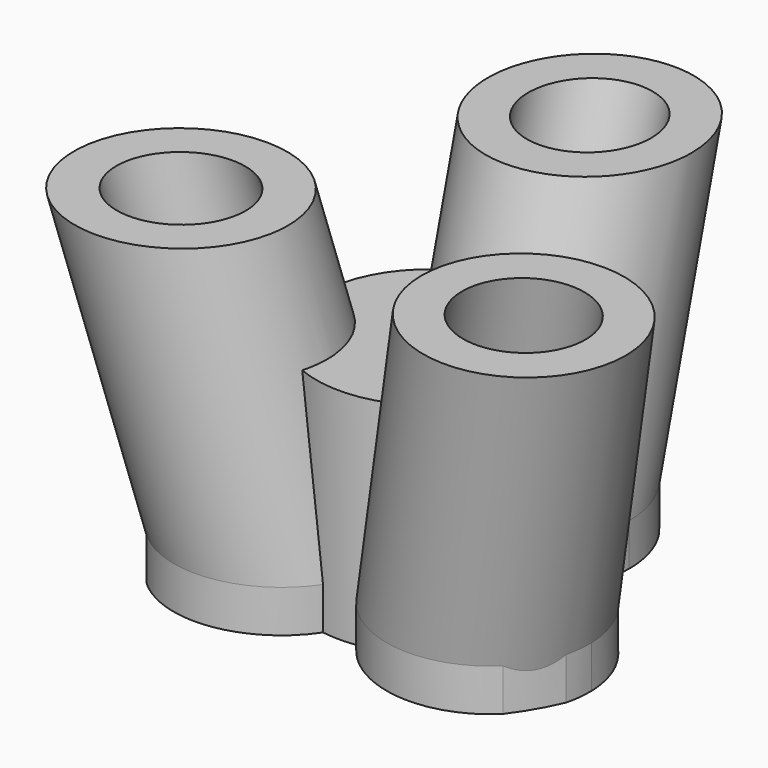
from build123d import *

# Parameters (mm, degrees)
F5_R           = 13.25
F5_R_2         = 8
F7_DEPTH       = 50
F4_R           = 13.25
F4_R_2         = 8
F8_DEPTH       = 50
F6_R           = 13.25
F6_R_2         = 8
F9_DEPTH       = 50
F10_DEPTH      = 25
F11_R          = 29
F12_DEPTH      = 3.5
F12_DEPTH_BACK = 2
F13_R          = 3.5
F14_DEPTH      = 51.7280401213
F14_DEPTH_BACK = 25
F17_DEPTH      = 20
F18_R          = 3.5
F19_DEPTH      = 12.9
F20_DEPTH      = 25
F22_W          = 110.3683225811
F22_H          = 78.3186629415
F23_DEPTH      = 25


with BuildPart() as f7:
    # F5 (on line) → F7 (new body)
    with BuildSketch(Plane(origin=(0.8701905284, -0.5024047358, 3.75), x_dir=(0.9745560663, 0.0297636554, -0.2221589485), z_dir=(-0.224143868, 0.1294095226, -0.9659258263))):
        with Locations((12.4405659735, 7.4533997104)):
            Circle(F5_R)
        with Locations((12.4405659735, 7.4533997104)):
            Circle(F5_R_2, mode=Mode.SUBTRACT)
    extrude(amount=-F7_DEPTH)


with BuildPart() as f8:
    # F4 (on line) → F8 (new body)
    with BuildSketch(Plane(origin=(-0.8701905284, -0.5024047358, 3.75), x_dir=(0.9745560663, -0.0297636554, 0.2221589485), z_dir=(0.224143868, 0.1294095226, -0.9659258263))):
        with Locations((-12.544631958, 7.3663704097)):
            Circle(F4_R)
        with Locations((-12.544631958, 7.3663704097)):
            Circle(F4_R_2, mode=Mode.SUBTRACT)
    extrude(amount=-F8_DEPTH)


with BuildPart() as f9:
    # F6 (on line) → F9 (new body)
    with BuildSketch(Plane(origin=(0, 1.0048094716, 3.75), x_dir=(1, 0, 0), z_dir=(0, -0.2588190451, -0.9659258263))):
        with Locations((0, -14.4834918901)):
            Circle(F6_R)
        with Locations((0, -14.4834918901)):
            Circle(F6_R_2, mode=Mode.SUBTRACT)
    extrude(amount=-F9_DEPTH)


with BuildPart() as f10:
    # F0 (on Top) → F10 (new body)
    with BuildSketch(Plane.XY):
        with BuildLine():
            Line((0, 0), (6.0621778265, -3.5))
            ThreePointArc((6.0621778265, -3.5), (9.8988818392, -0.1214749043), (14.998015474, 0.2439914803))
            ThreePointArc((14.998015474, 0.2439914803), (12.9903810568, 7.5), (7.7103105572, 12.8666666667))
            ThreePointArc((7.7103105572, 12.8666666667), (4.8442405666, 8.633420594), (0, 7))
            Line((0, 7), (0, 0))
        make_face()
        with BuildLine():
            Line((-6.0621778265, -3.5), (0, 0))
            Line((0, 0), (0, 7))
            ThreePointArc((0, 7), (-4.8442405666, 8.633420594), (-7.7103105572, 12.8666666667))
            ThreePointArc((-7.7103105572, 12.8666666667), (-12.9903810568, 7.5), (-14.998015474, 0.2439914803))
            ThreePointArc((-14.998015474, 0.2439914803), (-9.8988818392, -0.1214749043), (-6.0621778265, -3.5))
        make_face()
        with BuildLine():
            ThreePointArc((-7.2877049167, -13.110658147), (0, -15), (7.2877049167, -13.110658147))
            ThreePointArc((7.2877049167, -13.110658147), (5.0546412727, -8.5119456897), (6.0621778265, -3.5))
            Line((6.0621778265, -3.5), (0, 0))
            Line((0, 0), (-6.0621778265, -3.5))
            ThreePointArc((-6.0621778265, -3.5), (-5.2629744465, -5.4294476392), (-4.9903810568, -7.5))
            ThreePointArc((-4.9903810568, -7.5), (-5.5869558657, -10.5313850696), (-7.2877049167, -13.110658147))
        make_face()
    extrude(amount=F10_DEPTH)


with BuildPart() as f12:
    # F11 (on Top) → F12 (new body, two sides)
    with BuildSketch(Plane.XY) as f12_sk:
        Circle(F11_R)
    extrude(amount=-F12_DEPTH)
    extrude(f12_sk.sketch, amount=F12_DEPTH_BACK)


with BuildPart() as f14_tool:
    # F13 (on Top) → F14 (new body, two sides)
    with BuildSketch(Plane.XY) as f14_sk:
        Circle(F13_R)
    extrude(amount=F14_DEPTH)
    extrude(f14_sk.sketch, amount=-F14_DEPTH_BACK)


with BuildPart() as f7_1:
    add(f7.part)

    # F14: cut by f14_tool
    add(f14_tool.part, mode=Mode.SUBTRACT)


with BuildPart() as f8_1:
    add(f8.part)

    # F14: cut by f14_tool
    add(f14_tool.part, mode=Mode.SUBTRACT)


with BuildPart() as f9_1:
    add(f9.part)

    # F14: cut by f14_tool
    add(f14_tool.part, mode=Mode.SUBTRACT)


with BuildPart() as f10_1:
    add(f10.part)

    # F14: cut by f14_tool
    add(f14_tool.part, mode=Mode.SUBTRACT)


with BuildPart() as f12_1:
    add(f12.part)

    # F14: cut by f14_tool
    add(f14_tool.part, mode=Mode.SUBTRACT)


with BuildPart() as f7_2:
    add(f7_1.part)

    # F15: union F8, F9, F10, F12
    add(f8_1.part)
    add(f9_1.part)
    add(f10_1.part)
    add(f12_1.part)

    # F16 (on face) → F17 (cut)
    with BuildSketch(Plane(origin=(0, 0, -3.5), x_dir=(1, 0, 0), z_dir=(0, 0, -1))):
        Polygon((-3.275, -5.6724663948), (3.275, -5.6724663948), (6.55, 0), (3.275, 5.6724663948), (-3.275, 5.6724663948), (-6.55, 0), align=None)
    extrude(amount=-F17_DEPTH, mode=Mode.SUBTRACT)

    # F18 (on face) → F19 (join)
    with BuildSketch(Plane.XY.offset(25)):
        with BuildLine():
            ThreePointArc((9.2145774198, 11.8360281756), (0, 7.9883032381), (-9.2145774198, 11.8360281756))
            ThreePointArc((-9.2145774198, 11.8360281756), (-13.0401831697, 7.5480168017), (-14.8529870725, 2.0949403392))
            ThreePointArc((-14.8529870725, 2.0949403392), (-6.9961529284, -3.9893730543), (-5.7610544028, -13.849557833))
            ThreePointArc((-5.7610544028, -13.849557833), (-0.06216489, -14.9998711837), (5.646063326, -13.8968330536))
            ThreePointArc((5.646063326, -13.8968330536), (6.9321877833, -4.0088841204), (14.8609587483, 2.0376224091))
            ThreePointArc((14.8609587483, 2.0376224091), (12.9965398986, 7.4893224435), (9.2145774198, 11.8360281756))
        make_face()
        Circle(F18_R, mode=Mode.SUBTRACT)
    extrude(amount=-F19_DEPTH)

    # F20 (cut): faces of the model
    f20_faces = [f7_2.faces().sort_by_distance(p)[0] for p in [
        (-0.065182715, -22.8612906219, 2),
        (19.8111281547, 11.4386598585, 2),
        (-19.780330483, 11.5571321241, 2),
    ]]
    extrude(f20_faces, amount=-F20_DEPTH, mode=Mode.SUBTRACT)

    # F22 (on offset) → F23 (cut)
    with BuildSketch(Plane.XY.offset(40)):
        with Locations((0.9703096002, 2.6732347906)):
            Rectangle(F22_W, F22_H)
    extrude(amount=F23_DEPTH, mode=Mode.SUBTRACT)


solid = f7_2.part
